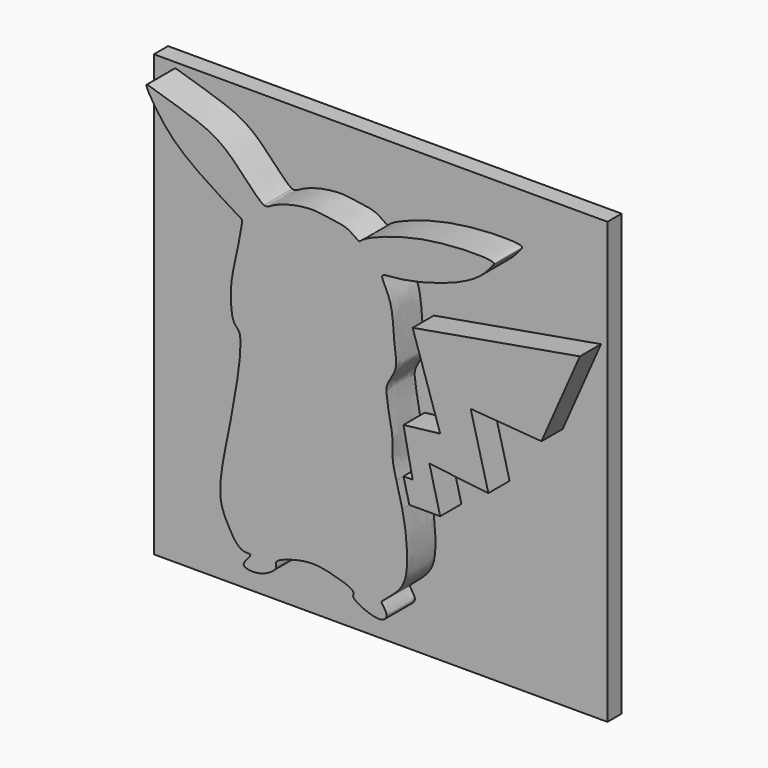
from build123d import *

# Parameters (mm, degrees)
F1_DEPTH = 10.16
F2_DEPTH = 7.62
F3_W     = 130.3303204477
F3_H     = 126.5131123364
F4_DEPTH = 5.08


with BuildPart() as f1:
    # F0 (on Front) → F1 (new body)
    with BuildSketch(Plane.XZ):
        with BuildLine():
            add(Edge.make_bspline(
                [(-16.5223479271, 39.7857092321), (-15.7651721627, 39.480871296), (-14.5589803795, 40.4430325742), (-9.3118043925, 42.5966883327), (-1.9360381488, 43.48351969), (2.1808302369, 42.4376464102), (7.5900150213, 42.2172938458), (10.8586766262, 39.0916114585), (11.5719861441, 40.7094561305), (28.1450408594, 47.6018758136), (50.476450283, 47.5222780112), (49.0280855, 45.7044078845), (45.5530673492, 41.1558125114), (35.0090790983, 36.3418812697), (22.5884714287, 33.4907726338), (17.9565430261, 33.5531588161), (16.9569925385, 32.5903283126), (20.6544103684, 27.2725050684), (20.6184396313, 16.5510003713), (22.1922374361, 10.6414338932), (18.3393006593, 6.0110138755), (18.7772594702, 2.8936256269), (19.235378097, -0.998027871), (20.6719359562, -6.6740722175), (20.1335687458, -12.5453173828), (20.9796080989, -15.5164624949), (21.5098410845, -17.4612924457)],
                knots=[0, 0, 0, 0, 0.0095923747, 0.025876326, 0.0445920486, 0.0588024542, 0.0748749995, 0.088012143, 0.094175992, 0.1237233234, 0.154697847, 0.1604703751, 0.1761546731, 0.2000337802, 0.2249812045, 0.2387956846, 0.244603949, 0.2607971442, 0.2837335195, 0.300449948, 0.3161790213, 0.3278874403, 0.3413433645, 0.3580180371, 0.3744117702, 0.3899969974, 0.3899969974, 0.3899969974, 0.3899969974], degree=3))
            add(Edge.make_bspline(
                [(23.1920970436, -24.1485182196), (23.4177235249, -25.1689254289), (24.2931224442, -29.4884745723), (24.7771551524, -36.1109456346), (24.2570580061, -44.5561165638), (17.1244194481, -49.1175262925), (17.318381094, -50.0825984079), (19.1698252974, -52.2458201887), (17.9216267498, -54.3781878606), (14.2480056514, -54.1172745311), (8.2259469154, -51.3291927739), (10.1990631545, -49.1372644352), (0.7824132385, -46.4105547936), (-4.9473307407, -46.0525771622), (-14.0956335522, -48.8252891859), (-12.2613416303, -51.0135083962), (-17.174441272, -54.3472281437), (-22.1626417297, -53.9330321343), (-22.647215964, -52.451429833), (-19.1725165317, -49.2363721505), (-23.4343828555, -50.3678756954), (-26.7425132222, -44.824417668), (-29.7768508084, -38.8301004191), (-28.3053011663, -27.8916694259), (-25.6533899236, -16.3512017727), (-22.0298607549, 5.8126477898), (-25.7807166889, 6.5064548538), (-26.4561283029, 16.4358035221), (-24.7226723987, 22.9426370936), (-22.6152010487, 33.9222971786), (-23.0580742139, 34.2281040036), (-39.3491433354, 43.9064616044), (-46.3776917602, 51.9141154187), (-51.0763627354, 59.6108920896), (-48.9189941335, 59.1073331356), (-37.9137412309, 55.5932484838), (-27.1672422322, 51.9085651422), (-18.5892712756, 40.6178497697), (-16.5223479271, 39.7857092321)],
                knots=[0.4052330687, 0.4052330687, 0.4052330687, 0.4052330687, 0.4116843708, 0.4323810834, 0.4521238233, 0.4706394641, 0.4762619297, 0.4872282383, 0.4963094234, 0.509498295, 0.5259671148, 0.5335799653, 0.5528632115, 0.5717953375, 0.5907723015, 0.5987236685, 0.6142989201, 0.6291766646, 0.6361462339, 0.6482960141, 0.6583630441, 0.6750972651, 0.6930390463, 0.7147180044, 0.7404137076, 0.7712859105, 0.7819045161, 0.8018541048, 0.8221378368, 0.8437263205, 0.848084822, 0.8765637967, 0.9020252109, 0.9196380224, 0.9260167874, 0.9486858006, 0.9738149262, 1, 1, 1, 1], degree=3))
            add(Edge.make_bspline(
                [(21.5098410845, -17.4612924457), (22.0281952614, -19.3625523743), (22.6592338932, -21.7386175853), (23.1920970436, -24.1485182196)],
                knots=[0.3899969974, 0.3899969974, 0.3899969974, 0.3899969974, 0.4052330687, 0.4052330687, 0.4052330687, 0.4052330687], degree=3))
        make_face()
    extrude(amount=F1_DEPTH)

    # F0 (on Front) → F2 (join)
    with BuildSketch(Plane.XZ):
        with BuildLine():
            Line((24.1470579058, -17.4612924457), (21.5098410845, -17.4612924457))
            add(Edge.make_bspline(
                [(21.5098410845, -17.4612924457), (22.0281952614, -19.3625523743), (22.6592338932, -21.7386175853), (23.1920970436, -24.1485182196)],
                knots=[0.3899969974, 0.3899969974, 0.3899969974, 0.3899969974, 0.4052330687, 0.4052330687, 0.4052330687, 0.4052330687], degree=3))
            Line((23.1920970436, -24.1485182196), (32.0587046444, -24.1485182196))
            Line((32.0587046444, -24.1485182196), (28.9505571127, -11.8101164699))
            Line((28.9505571127, -11.8101164699), (45.9040850401, -13.7880286202))
            Line((45.9040850401, -13.7880286202), (40.818028152, 5.8969017118))
            Line((40.818028152, 5.8969017118), (61.1622594297, 4.2957351543))
            Line((61.1622594297, 4.2957351543), (72.1847986147, 29.3492823839))
            Line((72.1847986147, 29.3492823839), (24.1470579058, 20.9667067975))
            Line((24.1470579058, 20.9667067975), (32.0587046444, -3.2391664572))
            Line((32.0587046444, -3.2391664572), (21.5098410845, -4.4635878876))
            Line((21.5098410845, -4.4635878876), (24.1470579058, -17.4612924457))
        make_face()
    extrude(amount=F2_DEPTH)

    # F3 (on face) → F4 (join)
    with BuildSketch(Plane(origin=(0, 0, 0), x_dir=(-1, 0, 0), z_dir=(0, 1, 0))):
        with Locations((-8.8610369712, -2.3584719747)):
            Rectangle(F3_W, F3_H)
    extrude(amount=F4_DEPTH)


solid = f1.part
